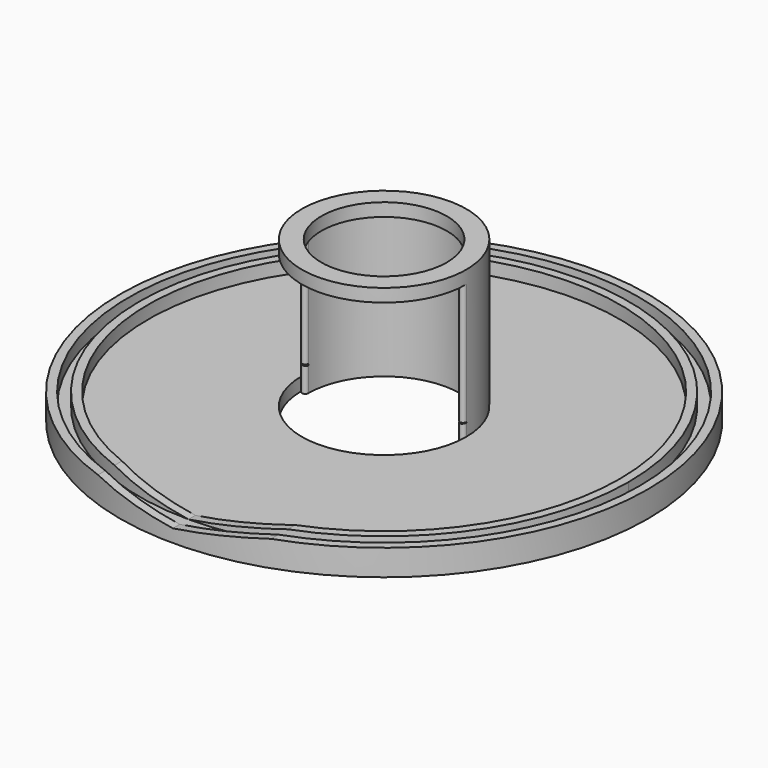
from build123d import *

# Parameters (mm, degrees)
F1_DEPTH = 34
F0_R     = 61
F0_R_2   = 59
F0_R_3   = 56.5
F0_R_4   = 54.5
F2_DEPTH = 3
F3_START = 34
F0_R_5   = 14.5
F3_DEPTH = 3
F4_DEPTH = 6
F6_DEPTH = 61.001


with BuildPart() as f1:
    # F0 (on Top) → F1 (new body)
    with BuildSketch(Plane.XY):
        with BuildLine():
            ThreePointArc((-17.5, 0), (0, 17.5), (17.5, 0))
            ThreePointArc((17.5, 0), (18.25, 0.75), (19, 0))
            ThreePointArc((19, 0), (-2.7e-09, 19), (-19, -5.4e-09))
            ThreePointArc((-19, -5.4e-09), (-18.2500000027, 0.75), (-17.5, 0))
        make_face()
        with BuildLine():
            ThreePointArc((19, 0), (18.25, 0.75), (17.5, 0))
            ThreePointArc((17.5, 0), (18.25, -0.75), (19, 0))
        make_face()
        with BuildLine():
            ThreePointArc((-19, -5.4e-09), (-18.2499999973, -0.75), (-17.5, 0))
            ThreePointArc((-17.5, 0), (-18.2500000027, 0.75), (-19, -5.4e-09))
        make_face()
    extrude(amount=F1_DEPTH)

    # F0 (on Top) → F2 (join)
    with BuildSketch(Plane.XY):
        Circle(F0_R)
        Circle(F0_R_2, mode=Mode.SUBTRACT)
        Circle(F0_R_2)
        Circle(F0_R_3, mode=Mode.SUBTRACT)
        Circle(F0_R_3)
        Circle(F0_R_4, mode=Mode.SUBTRACT)
        Circle(F0_R_4)
        with BuildLine():
            ThreePointArc((-19, -5.4e-09), (-2.7e-09, 19), (19, 0))
            ThreePointArc((19, 0), (2.7e-09, -19), (-19, -5.4e-09))
        make_face(mode=Mode.SUBTRACT)
    extrude(amount=F2_DEPTH)

    # F0 (on Top) → F3 (join)
    with BuildSketch(Plane.XY.offset(F3_START)):
        with BuildLine():
            ThreePointArc((-17.5, 0), (0, -17.5), (17.5, 0))
            ThreePointArc((17.5, 0), (0, 17.5), (-17.5, 0))
        make_face()
        Circle(F0_R_5, mode=Mode.SUBTRACT)
        with BuildLine():
            ThreePointArc((-17.5, 0), (0, 17.5), (17.5, 0))
            ThreePointArc((17.5, 0), (18.25, 0.75), (19, 0))
            ThreePointArc((19, 0), (-2.7e-09, 19), (-19, -5.4e-09))
            ThreePointArc((-19, -5.4e-09), (-18.2500000027, 0.75), (-17.5, 0))
        make_face()
        with BuildLine():
            ThreePointArc((19, 0), (18.25, 0.75), (17.5, 0))
            ThreePointArc((17.5, 0), (18.25, -0.75), (19, 0))
        make_face()
        with BuildLine():
            ThreePointArc((-19, -5.4e-09), (-18.2499999973, -0.75), (-17.5, 0))
            ThreePointArc((-17.5, 0), (-18.2500000027, 0.75), (-19, -5.4e-09))
        make_face()
        with BuildLine():
            ThreePointArc((19, 0), (18.25, -0.75), (17.5, 0))
            ThreePointArc((17.5, 0), (0, -17.5), (-17.5, 0))
            ThreePointArc((-17.5, 0), (-18.2499999973, -0.75), (-19, -5.4e-09))
            ThreePointArc((-19, -5.4e-09), (2.7e-09, -19), (19, 0))
        make_face()
    extrude(amount=F3_DEPTH)

    # F0 (on Top) → F4 (join)
    with BuildSketch(Plane.XY):
        Circle(F0_R)
        Circle(F0_R_2, mode=Mode.SUBTRACT)
        Circle(F0_R_3)
        Circle(F0_R_4, mode=Mode.SUBTRACT)
    extrude(amount=F4_DEPTH)

    # F5 (on Front) → F6 (cut, through all)
    with BuildSketch(Plane.XZ):
        Polygon((-20, 6), (0, 3), (0, 6), align=None)
        Polygon((0, 6), (0, 3), (20, 6), align=None)
    extrude(amount=F6_DEPTH, mode=Mode.SUBTRACT)


solid = f1.part
